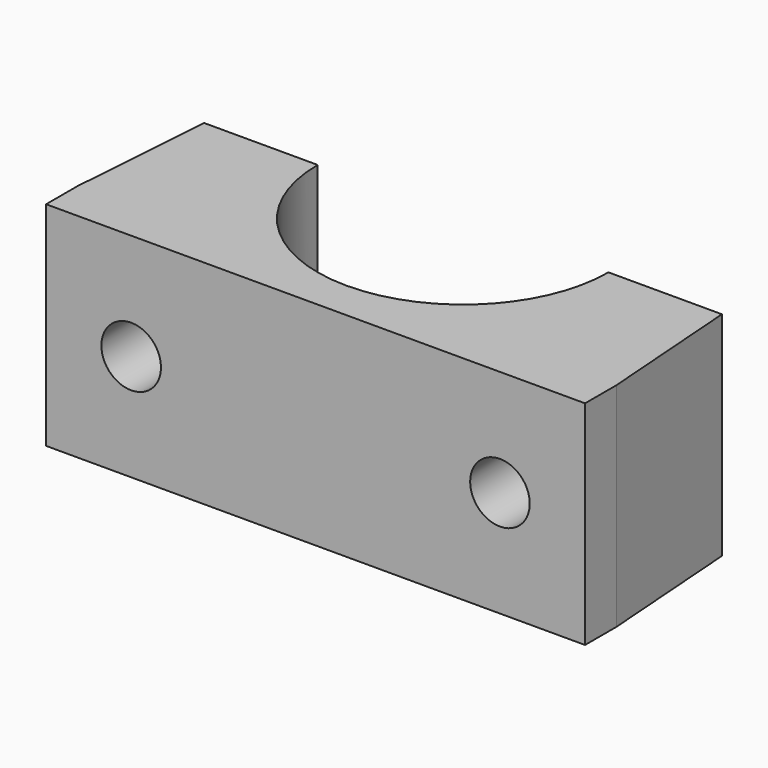
from build123d import *

# Parameters (mm, degrees)
F1_DEPTH = 15
F3_D     = 4.2


with BuildPart() as f1:
    # F0 (on Top) → F1 (new body)
    with BuildSketch(Plane.XY):
        with BuildLine():
            Line((-71.359236, 11.650817), (-71.359236, 8.900817))
            Line((-71.359236, 8.900817), (-33.359236, 8.900817))
            Line((-33.359236, 8.900817), (-33.359236, 11.650817))
            Line((-33.359236, 11.650817), (-34.109236, 21.900817))
            Line((-34.109236, 21.900817), (-42.109236, 21.900817))
            ThreePointArc((-42.109236, 21.900817), (-52.359236, 11.650817), (-62.609236, 21.900817))
            Line((-62.609236, 21.900817), (-70.609236, 21.900817))
            Line((-70.609236, 21.900817), (-71.359236, 11.650817))
        make_face()
    extrude(amount=F1_DEPTH)

    # F3 (through all)
    with Locations(Plane.XZ.offset(-8.900817)):
        with Locations((-65.359236, 7.5), (-39.359236, 7.5)):
            Hole(F3_D / 2)


solid = f1.part
